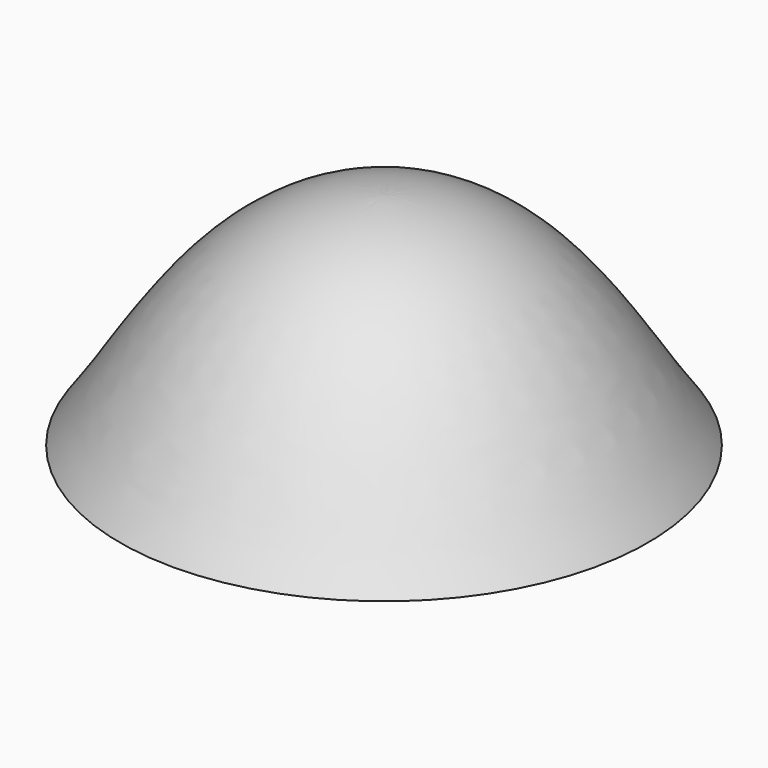
from build123d import *


with BuildPart() as f1:
    # F0 (on Right) → F1 (revolve)
    with BuildSketch(Plane.YZ):
        with BuildLine():
            Line((-36.978263, 0), (0, 0))
            Line((0, 0), (0, 30.815218))
            add(Edge.make_bspline(
                [(0, 30.815218), (-20.543478, 30.541304), (-28.760871, 11.093478), (-36.978263, 0)],
                knots=[0, 0, 0, 0, 48.13491, 48.13491, 48.13491, 48.13491], degree=3))
        make_face()
    revolve(axis=Axis((0, 0, 15.407609), (0, 0, 1)))


solid = f1.part
